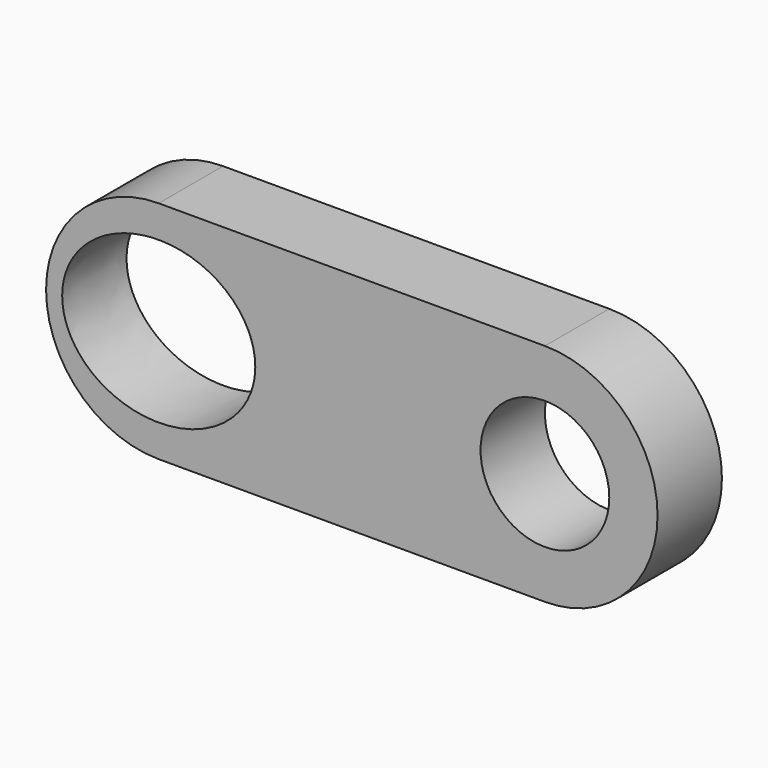
from build123d import *

# Parameters (mm, degrees)
F0_R     = 5.08
F1_DEPTH = 6.35


with BuildPart() as f1:
    # F0 (on Front) → F1 (new body)
    with BuildSketch(Plane.XZ):
        with BuildLine():
            Line((30.48, 8.89), (0, 8.89))
            ThreePointArc((0, 8.89), (-8.89, 0), (0, -8.89))
            Line((0, -8.89), (30.48, -8.89))
            ThreePointArc((30.48, -8.89), (39.37, 0), (30.48, 8.89))
        make_face()
        with BuildLine():
            add(Edge.make_bspline(
                [(7.62, 0), (7.62, 10.998523), (-3.81, 5.499261), (-15.24, 0), (-3.81, -5.499261), (7.62, -10.998523), (7.62, 0)],
                knots=[0, 0, 0, 2.094395, 2.094395, 4.18879, 4.18879, 6.283185, 6.283185, 6.283185], degree=2, weights=[1, 0.5, 1, 0.5, 1, 0.5, 1]))
        make_face(mode=Mode.SUBTRACT)
        with Locations((30.48, 0)):
            Circle(F0_R, mode=Mode.SUBTRACT)
    extrude(amount=F1_DEPTH)


solid = f1.part
